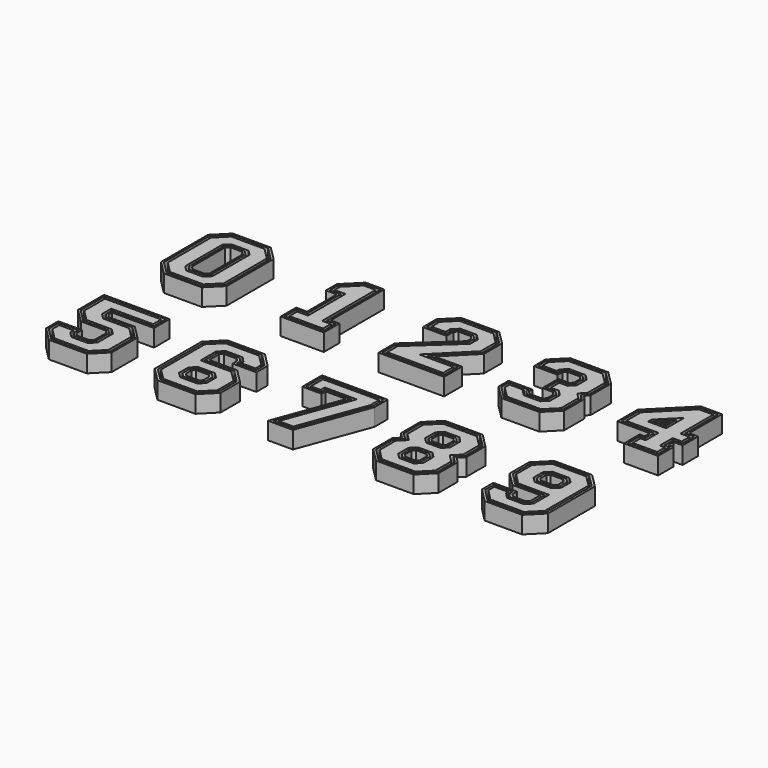
from build123d import *

# Parameters (mm, degrees)
F1_DEPTH = 2.54


with BuildPart() as f1:
    # F0 (on Top) → F1 (new body)
    with BuildSketch(Plane.XY):
        Polygon((-41.606546, -2.26154), (-43.637098, -4.294886), (-43.637098, -12.92733), (-41.605937, -14.958644), (-36.020324, -14.958644), (-33.988604, -12.92799), (-33.988604, -4.294149), (-36.021239, -2.26154), align=None)
        Polygon((-43.328717, -12.782245), (-43.328742, -4.43992), (-41.460852, -2.571852), (-36.16513, -2.571852), (-34.297239, -4.43992), (-34.297239, -12.782194), (-36.16513, -14.650136), (-41.460826, -14.65011), align=None, mode=Mode.SUBTRACT)
        Polygon((-19.327114, -12.110949), (-19.327114, -2.263673), (-22.047505, -2.263673), (-24.405133, -4.621327), (-24.405133, -6.635242), (-22.809124, -6.635242), (-22.809124, -12.11105), (-24.405133, -12.11105), (-24.405133, -14.958517), (-18.05752, -14.958517), (-18.057901, -12.110949), align=None)
        Polygon((-21.919184, -2.573452), (-19.617309, -2.573452), (-19.617004, -12.420752), (-18.34802, -12.420752), (-18.347919, -14.648739), (-24.095354, -14.648713), (-24.095354, -12.420829), (-22.499345, -12.420829), (-22.499345, -6.325464), (-24.095354, -6.325464), (-24.095354, -4.749622), align=None, mode=Mode.SUBTRACT)
        Polygon((28.179319, -23.389742), (22.601504, -23.389742), (20.539837, -25.461036), (20.539837, -29.014547), (22.577146, -31.052491), (26.684199, -31.052491), (26.684199, -32.882332), (26.308202, -33.266685), (24.419865, -33.266685), (24.018824, -32.848906), (24.018824, -32.021729), (20.534605, -32.021729), (20.534605, -34.102218), (22.573336, -36.170972), (28.11559, -36.170972), (30.219218, -34.067318), (30.219218, -25.429642), align=None)
        Polygon((20.892668, -25.606705), (22.748113, -23.742599), (28.033193, -23.742599), (29.866387, -25.575793), (29.866387, -33.921192), (27.969439, -35.81814), (22.720986, -35.81814), (20.887436, -33.95759), (20.887436, -32.374561), (23.665993, -32.374561), (23.665993, -32.990866), (24.269497, -33.619516), (26.456615, -33.619516), (27.03703, -33.026223), (27.03703, -30.699659), (22.723323, -30.699659), (20.892668, -28.868421), align=None, mode=Mode.SUBTRACT)
        Polygon((-25.558725, -36.193476), (-19.980885, -36.193476), (-17.919243, -34.122182), (-17.919243, -30.568671), (-19.956551, -28.530728), (-24.063604, -28.530728), (-24.063604, -26.700886), (-23.687608, -26.316534), (-21.799271, -26.316534), (-21.39823, -26.734313), (-21.39823, -27.561489), (-17.91401, -27.561489), (-17.91401, -25.481001), (-19.952741, -23.412247), (-25.494996, -23.412247), (-27.598624, -25.5159), (-27.598624, -34.153577), align=None)
        Polygon((-18.272074, -33.976513), (-20.127519, -35.840619), (-25.412573, -35.840619), (-27.245793, -34.007425), (-27.245793, -25.662026), (-25.348844, -23.765078), (-20.100392, -23.765078), (-18.266842, -25.625628), (-18.266842, -27.208658), (-21.045373, -27.208658), (-21.045373, -26.592352), (-21.648903, -25.963702), (-23.83602, -25.963702), (-24.416436, -26.556995), (-24.416436, -28.883559), (-20.102728, -28.883559), (-18.272074, -30.714798), align=None, mode=Mode.SUBTRACT)
        Polygon((-10.003206, -4.294861), (-10.003206, -6.815633), (-6.520561, -6.815633), (-6.520561, -5.546217), (-6.103442, -5.129098), (-4.27167, -5.129098), (-3.854577, -5.545963), (-3.854577, -6.362192), (-10.002545, -12.002313), (-10.002545, -14.958517), (-0.354381, -14.958517), (-0.354381, -11.676075), (-4.380027, -11.676075), (-0.354508, -7.64987), (-0.354508, -4.294886), (-2.38572, -2.263673), (-7.971333, -2.263673), align=None)
        Polygon((-6.829146, -6.507048), (-9.694647, -6.507048), (-9.694647, -4.422724), (-7.843545, -2.572233), (-2.513533, -2.572233), (-0.663092, -4.422699), (-0.663092, -7.522083), (-5.124882, -11.98466), (-0.66294, -11.98466), (-0.66294, -14.649933), (-9.693986, -14.649933), (-9.693986, -12.138), (-3.545992, -6.497853), (-3.545992, -5.418099), (-4.143908, -4.820539), (-6.231255, -4.820539), (-6.829146, -5.418404), align=None, mode=Mode.SUBTRACT)
        Polygon((6.033668, -4.294988), (6.033668, -6.398514), (9.519539, -6.398514), (9.519539, -5.527954), (9.918624, -5.129098), (11.786489, -5.129098), (12.185548, -5.52798), (12.185548, -6.761251), (11.822328, -7.14187), (10.208717, -7.14187), (10.208717, -10.080117), (11.786489, -10.080117), (12.185548, -10.478973), (12.185548, -11.71227), (11.786489, -12.111126), (9.936658, -12.111126), (9.519539, -11.694008), (9.519539, -11.077473), (6.037555, -11.077473), (6.037555, -12.927279), (8.068691, -14.958492), (13.654329, -14.958492), (15.685592, -12.927432), (15.685592, -9.155201), (15.141677, -8.611083), (15.685592, -8.066989), (15.685592, -4.294886), (13.654202, -2.263648), (8.068716, -2.263648), align=None)
        Polygon((9.225712, -6.104687), (6.327496, -6.104687), (6.327496, -4.416857), (8.190281, -2.557475), (13.532485, -2.557475), (15.391765, -4.416603), (15.391765, -7.945323), (14.726209, -8.611083), (15.391765, -9.276893), (15.391765, -12.805715), (13.532612, -14.664665), (8.190408, -14.664665), (6.331407, -12.805562), (6.331407, -11.371301), (9.225712, -11.371301), (9.225712, -11.815724), (9.814941, -12.404954), (11.908155, -12.404954), (12.479376, -11.834012), (12.479376, -10.357231), (11.908155, -9.78629), (10.502544, -9.78629), (10.502544, -7.435698), (11.948084, -7.435698), (12.479376, -6.878955), (12.479376, -5.406212), (11.908155, -4.835271), (9.796958, -4.835271), (9.225712, -5.406212), align=None, mode=Mode.SUBTRACT)
        Polygon((22.113799, -7.432116), (22.113799, -11.150143), (26.883487, -11.150143), (26.883487, -12.110898), (26.139902, -12.110898), (26.139902, -14.958517), (31.145455, -14.958517), (31.145455, -12.111126), (30.383683, -12.111126), (30.383683, -11.151006), (31.707658, -11.151006), (31.707658, -8.30166), (30.383658, -8.30166), (30.383658, -2.263673), (27.282369, -2.263673), align=None)
        Polygon((27.194535, -10.839094), (22.424847, -10.839094), (22.424847, -7.56097), (27.411197, -2.574722), (30.072609, -2.574722), (30.072609, -8.612708), (31.39661, -8.612708), (31.39661, -10.839958), (30.072635, -10.839958), (30.072635, -12.422175), (30.834406, -12.422175), (30.834406, -14.647469), (26.45095, -14.647469), (26.45095, -12.421946), (27.194535, -12.421946), align=None, mode=Mode.SUBTRACT)
        Polygon((-43.633619, -23.430306), (-43.633619, -28.218028), (-41.600958, -30.249241), (-37.883211, -30.249241), (-37.484431, -30.648351), (-37.484431, -32.879005), (-37.883287, -33.277785), (-39.733068, -33.277785), (-40.150161, -32.860691), (-40.150161, -31.845072), (-43.632145, -31.845072), (-43.632145, -34.093963), (-41.600933, -36.125175), (-36.015346, -36.125175), (-33.984108, -34.094344), (-33.984108, -29.342385), (-35.906304, -27.420113), (-39.733042, -27.420113), (-40.149983, -27.002994), (-40.149983, -26.295909), (-33.984108, -26.295909), (-33.984108, -23.430306), align=None)
        Polygon((-41.480842, -29.959122), (-43.3435, -28.097785), (-43.3435, -23.720425), (-34.274227, -23.720425), (-34.274227, -26.005765), (-40.440102, -26.005765), (-40.440102, -27.123136), (-39.85326, -27.710232), (-36.026471, -27.710232), (-34.274227, -29.462552), (-34.274227, -33.974151), (-36.135488, -35.835057), (-41.480765, -35.835057), (-43.342027, -33.973795), (-43.342027, -32.135191), (-40.44028, -32.135191), (-40.44028, -32.980859), (-39.853235, -33.567903), (-37.76312, -33.567903), (-37.194312, -32.999197), (-37.194312, -30.528235), (-37.762967, -29.959122), align=None, mode=Mode.SUBTRACT)
        Polygon((-11.552326, -23.430027), (-11.552326, -27.039646), (-8.704529, -27.039646), (-8.704529, -26.296823), (-5.696102, -26.296823), (-9.339402, -36.12515), (-5.67596, -36.12515), (-1.885645, -25.879679), (-1.885645, -23.430027), align=None)
        Polygon((-9.023477, -26.720673), (-11.233379, -26.720673), (-11.233379, -23.748975), (-2.204593, -23.748975), (-2.204593, -25.82258), (-5.898058, -35.806177), (-8.880983, -35.806177), (-5.237683, -25.97785), (-9.023477, -25.97785), align=None, mode=Mode.SUBTRACT)
        Polygon((4.518863, -25.460884), (4.518863, -28.979876), (5.31683, -29.777741), (4.518914, -30.575682), (4.518914, -34.093963), (6.550101, -36.125175), (12.099595, -36.125175), (14.130833, -34.093988), (14.130833, -30.575682), (13.332993, -29.777741), (14.130833, -28.979851), (14.130833, -25.461544), (12.099265, -23.430306), (6.550101, -23.430306), align=None)
        Polygon((5.753887, -29.777715), (4.827905, -28.85186), (4.827905, -25.588925), (6.678066, -23.739348), (11.971249, -23.739348), (13.821791, -25.58956), (13.821791, -28.85186), (12.895986, -29.777741), (13.821791, -30.703672), (13.821791, -33.965972), (11.971604, -35.816134), (6.678117, -35.816134), (4.827956, -33.965972), (4.827956, -30.703672), align=None, mode=Mode.SUBTRACT)
        Polygon((-20.012838, -12.816586), (-20.013143, -2.969311), (-21.755227, -2.969311), (-23.699521, -4.913605), (-23.699521, -5.929605), (-22.103486, -5.929605), (-22.103486, -12.816688), (-23.699521, -12.816688), (-23.699521, -14.25288), (-18.743778, -14.25288), (-18.743854, -12.816586), align=None)
        Polygon((-9.29706, -4.587443), (-9.29706, -6.109487), (-7.226706, -6.109487), (-7.226706, -5.253736), (-6.395949, -4.422953), (-3.979291, -4.422953), (-3.148432, -5.253355), (-3.148432, -6.672656), (-9.2964, -12.312777), (-9.2964, -14.252372), (-1.060526, -14.252372), (-1.060526, -12.382221), (-6.084595, -12.382221), (-1.060653, -7.357415), (-1.060653, -4.587367), (-2.678227, -2.969819), (-7.678928, -2.969819), align=None)
        Polygon((6.721297, -4.580179), (6.721297, -5.710885), (8.83191, -5.710885), (8.83191, -5.243043), (9.63389, -4.441469), (12.071223, -4.441469), (12.873177, -5.243043), (12.873177, -7.036689), (12.116638, -7.829499), (10.896346, -7.829499), (10.896346, -9.392488), (12.071223, -9.392488), (12.873177, -10.194061), (12.873177, -11.997207), (12.071198, -12.798755), (9.651822, -12.798755), (8.83191, -11.978843), (8.83191, -11.765077), (6.725183, -11.765077), (6.725183, -12.642469), (8.353527, -14.270863), (13.369519, -14.270863), (14.997963, -12.642596), (14.997963, -9.439961), (14.169365, -8.611083), (14.997963, -7.78223), (14.997963, -4.579747), (13.369392, -2.951277), (8.353171, -2.951277), align=None)
        Polygon((22.820122, -7.724699), (22.820122, -10.44382), (27.58981, -10.44382), (27.58981, -12.817221), (26.846225, -12.817221), (26.846225, -14.252194), (30.439131, -14.252194), (30.439131, -12.81745), (29.67736, -12.81745), (29.67736, -10.444683), (31.001335, -10.444683), (31.001335, -9.007983), (29.677335, -9.007983), (29.677335, -2.969971), (27.574926, -2.969971), align=None)
        Polygon((27.572056, -8.991549), (24.906224, -8.990711), (24.906224, -8.357362), (27.572056, -5.691581), align=None, mode=Mode.SUBTRACT)
        Polygon((27.191792, -6.706845), (25.305436, -8.592845), (27.191792, -8.592845), align=None)
        Polygon((26.883055, -8.284108), (26.0509, -8.284108), (26.883055, -7.452081), align=None, mode=Mode.SUBTRACT)
        Polygon((-42.945761, -24.118164), (-42.945761, -27.932964), (-41.316173, -29.561358), (-37.598121, -29.561358), (-36.796548, -30.363566), (-36.796548, -33.163967), (-37.598401, -33.965642), (-40.018005, -33.965642), (-40.838044, -33.145628), (-40.838044, -32.532955), (-42.944288, -32.532955), (-42.944288, -33.809051), (-41.316021, -35.437318), (-36.300232, -35.437318), (-34.671991, -33.809381), (-34.671991, -29.627297), (-36.191241, -28.107996), (-40.018081, -28.107996), (-40.837841, -27.28783), (-40.837841, -25.608026), (-34.671991, -25.608026), (-34.671991, -24.118164), align=None)
        Polygon((-25.266447, -35.487788), (-20.274153, -35.487788), (-18.624906, -33.830844), (-18.624906, -30.860898), (-20.248931, -29.236391), (-24.769267, -29.236391), (-24.769267, -26.41313), (-23.984458, -25.610871), (-21.498509, -25.610871), (-20.692542, -26.450417), (-20.692542, -26.855826), (-18.619673, -26.855826), (-18.619673, -25.770281), (-20.248067, -24.11791), (-25.202693, -24.11791), (-26.892961, -25.808178), (-26.892961, -33.861273), align=None)
        Polygon((-20.713167, -33.215021), (-21.495106, -33.975497), (-23.977067, -33.975497), (-24.775566, -33.215021), (-24.775566, -31.492215), (-23.977651, -30.694071), (-21.493048, -30.694071), (-20.713167, -31.473927), align=None, mode=Mode.SUBTRACT)
        Polygon((-23.827486, -33.601533), (-21.646972, -33.601533), (-21.087131, -33.057059), (-21.087131, -31.628842), (-21.647937, -31.068035), (-23.822711, -31.068035), (-24.401577, -31.647079), (-24.401577, -33.054747), align=None)
        Polygon((-21.461095, -32.899096), (-21.798839, -33.227569), (-23.677905, -33.227569), (-24.027613, -32.894473), (-24.027613, -31.801943), (-23.667771, -31.442), (-21.802852, -31.442), (-21.461095, -31.783731), align=None, mode=Mode.SUBTRACT)
        Polygon((-10.853649, -24.128705), (-10.853649, -26.340968), (-9.403182, -26.340968), (-9.403182, -25.598145), (-4.691964, -25.598145), (-8.335264, -35.426472), (-6.162446, -35.426472), (-2.584323, -25.754584), (-2.584323, -24.128705), align=None)
        Polygon((5.225085, -25.753466), (5.225085, -28.687344), (6.315583, -29.777715), (5.22511, -30.868188), (5.22511, -33.801456), (6.842633, -35.418954), (11.807088, -35.418954), (13.424611, -33.801456), (13.424611, -30.868163), (12.334342, -29.777715), (13.424637, -28.687344), (13.424637, -25.754101), (11.806758, -24.136502), (6.842557, -24.136502), align=None)
        Polygon((8.254822, -33.966328), (7.475042, -33.185252), (7.475042, -31.301106), (8.254873, -30.52125), (10.394848, -30.52125), (11.156645, -31.301588), (11.156645, -33.187259), (10.394899, -33.966328), align=None, mode=Mode.SUBTRACT)
        Polygon((7.475042, -28.25435), (7.475042, -26.370204), (8.254822, -25.589103), (10.394899, -25.589103), (11.156645, -26.368197), (11.156645, -28.253868), (10.394848, -29.034207), (8.254873, -29.034207), align=None, mode=Mode.SUBTRACT)
        Polygon((7.86577, -31.462955), (7.86577, -33.023581), (8.416874, -33.5756), (10.230485, -33.5756), (10.765892, -33.027976), (10.765892, -31.460694), (10.230231, -30.911978), (8.416722, -30.911978), align=None)
        Polygon((8.549615, -33.255509), (8.185861, -32.891146), (8.185861, -31.595517), (8.54931, -31.232069), (10.095382, -31.232069), (10.445801, -31.591021), (10.445801, -32.897496), (10.095763, -33.255509), align=None, mode=Mode.SUBTRACT)
        Polygon((8.416874, -25.979857), (7.86577, -26.531849), (7.86577, -28.092502), (8.416722, -28.643478), (10.230231, -28.643478), (10.765892, -28.094762), (10.765892, -26.527481), (10.230485, -25.979857), align=None)
        Polygon((8.185861, -27.959914), (8.185861, -26.664285), (8.549615, -26.299947), (10.095763, -26.299947), (10.445801, -26.65796), (10.445801, -27.964409), (10.095382, -28.323388), (8.54931, -28.323388), align=None, mode=Mode.SUBTRACT)
        Polygon((27.887041, -24.095431), (22.894747, -24.095431), (21.2455, -25.752374), (21.2455, -28.72232), (22.869525, -30.346828), (27.389861, -30.346828), (27.389861, -33.170089), (26.605052, -33.972348), (24.119103, -33.972348), (23.313136, -33.132801), (23.313136, -32.727392), (21.240267, -32.727392), (21.240267, -33.812937), (22.868661, -35.465309), (27.823287, -35.465309), (29.513555, -33.77504), (29.513555, -25.721945), align=None)
        Polygon((23.333761, -26.368197), (24.1157, -25.607721), (26.597661, -25.607721), (27.396161, -26.368197), (27.396161, -28.091003), (26.598245, -28.889147), (24.113642, -28.889147), (23.333761, -28.109291), align=None, mode=Mode.SUBTRACT)
        Polygon((26.44808, -25.981685), (24.267566, -25.981685), (23.707725, -26.52616), (23.707725, -27.954376), (24.268557, -28.515183), (26.443305, -28.515183), (27.022196, -27.936139), (27.022196, -26.528471), align=None)
        Polygon((24.081689, -26.684122), (24.419433, -26.35565), (26.2985, -26.35565), (26.648207, -26.688745), (26.648207, -27.781275), (26.28839, -28.141219), (24.423446, -28.141219), (24.081689, -27.799487), align=None, mode=Mode.SUBTRACT)
        Polygon((-41.261208, -2.970911), (-42.929683, -4.639361), (-42.929683, -12.582779), (-41.261259, -14.251305), (-36.346511, -14.25128), (-34.678061, -12.582804), (-34.678036, -4.65742), (-36.382858, -2.970835), align=None)
        Polygon((-40.807792, -12.020372), (-40.807767, -5.201539), (-40.064258, -4.458005), (-37.543613, -4.457979), (-36.800206, -5.20126), (-36.799952, -12.020448), (-37.579808, -12.800305), (-40.028139, -12.800305), align=None, mode=Mode.SUBTRACT)
        Polygon((-39.810436, -4.820742), (-40.445233, -5.455539), (-40.445233, -11.766626), (-39.810436, -12.401448), (-37.815545, -12.401448), (-37.180723, -11.767007), (-37.180698, -5.455514), (-37.815545, -4.820742), align=None)
        Polygon((-40.136115, -11.638585), (-40.136115, -5.58358), (-39.682395, -5.12986), (-37.943587, -5.12986), (-37.489841, -5.58358), (-37.489867, -11.638915), (-37.943536, -12.092305), (-39.682395, -12.092305), align=None, mode=Mode.SUBTRACT)
    extrude(amount=F1_DEPTH)


solid = f1.part
